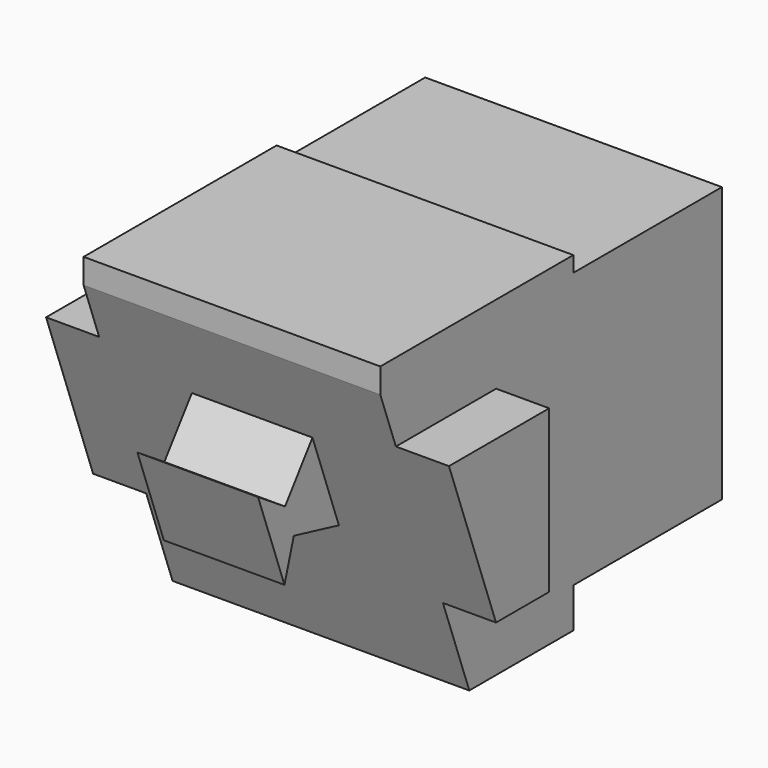
from build123d import *

# Parameters (mm, degrees)
SKETCH_W          = 24.6
SKETCH_H          = 22.8
PAD_DEPTH         = 25.4
SKETCH005_W       = 24.6
SKETCH005_H       = 27.4
PAD003_DEPTH      = 10
PAD003_DEPTH_BACK = 10
SKETCH011_W       = 4.4
SKETCH011_H       = 13.4
PAD004_DEPTH      = 10
PAD004_DEPTH_BACK = 2
SKETCH012_W       = 4.4
SKETCH012_H       = 13.4
PAD005_DEPTH      = 10
PAD005_DEPTH_BACK = 2
POCKET_DEPTH      = 4.4
POCKET_DEPTH_BACK = 29
SKETCH014_W       = 10
SKETCH014_H       = 8
PAD006_DEPTH      = 6
POCKET001_DEPTH   = 10


with BuildPart() as part:
    # Sketch → Pad (new body)
    with BuildSketch(Plane.XZ):
        with Locations((12.3, 12.4)):
            Rectangle(SKETCH_W, SKETCH_H)
    extrude(amount=-PAD_DEPTH)

    # Sketch005 → Pad003 (join, two sides)
    with BuildSketch(Plane.XZ) as pad003_sk:
        with Locations((12.3, 11.4)):
            Rectangle(SKETCH005_W, SKETCH005_H)
    extrude(amount=-PAD003_DEPTH)
    extrude(pad003_sk.sketch, amount=PAD003_DEPTH_BACK)

    # Sketch011 → Pad004 (join, two sides)
    with BuildSketch(Plane.XZ) as pad004_sk:
        with Locations((-2.2, 11.9)):
            Rectangle(SKETCH011_W, SKETCH011_H)
    extrude(amount=PAD004_DEPTH)
    extrude(pad004_sk.sketch, amount=-PAD004_DEPTH_BACK)

    # Sketch012 → Pad005 (join, two sides)
    with BuildSketch(Plane.XZ) as pad005_sk:
        with Locations((26.8, 11.9)):
            Rectangle(SKETCH012_W, SKETCH012_H)
    extrude(amount=PAD005_DEPTH)
    extrude(pad005_sk.sketch, amount=-PAD005_DEPTH_BACK)

    # Sketch013 → Pocket (cut, two sides)
    with BuildSketch(Plane.YZ) as pocket_sk:
        Polygon((-0.7794, -2.3), (-10, -2.3), (-10, 23.0333902938), align=None)
    extrude(amount=-POCKET_DEPTH, mode=Mode.SUBTRACT)
    extrude(pocket_sk.sketch, amount=POCKET_DEPTH_BACK, mode=Mode.SUBTRACT)

    # Sketch014 (on DatumPlane) → Pad006 (join)
    with BuildSketch(Plane(origin=(0, -1.4274332706, -0.5195432219), x_dir=(1, 0, 0), z_dir=(0, -0.9396926208, -0.3420201433))):
        with Locations((12.0719367464, 14.1064872032)):
            Rectangle(SKETCH014_W, SKETCH014_H)
    extrude(amount=PAD006_DEPTH)

    # Sketch015 (on DatumPlane) → Pocket001 (cut)
    with BuildSketch(Plane(origin=(17.0719367464, -9.071213908, 11.7101582781), x_dir=(0, 0.9396926208, 0.3420201433), z_dir=(1, 0, 0))):
        Polygon((-1, -1.3333333333), (3, -4), (-3, -4), align=None)
        Polygon((-2.999999, 4), (3, 4), (-0.9999997778, 1.3333334815), align=None)
    extrude(amount=-POCKET001_DEPTH, mode=Mode.SUBTRACT)


solid = part.part
